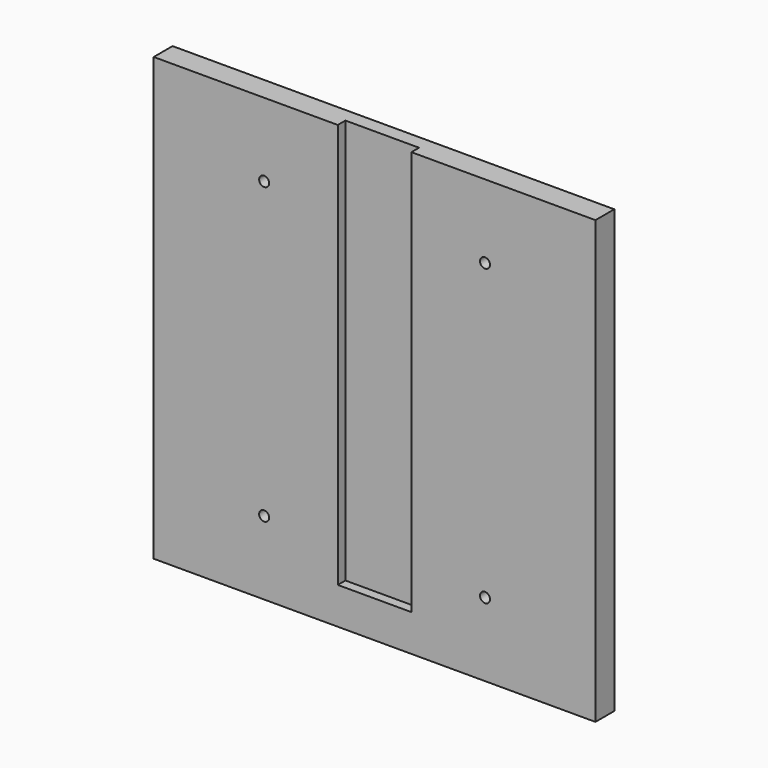
from build123d import *

# Parameters (mm, degrees)
F0_W     = 310
F0_H     = 300
F1_DEPTH = 16
F2_W     = 5
F2_H     = 300
F3_DEPTH = 16.001
F4_W     = 50
F4_H     = 275
F5_DEPTH = 6.5
F7_D     = 6.8
F7_DEPTH = 20
F7_TIP   = 2.0429261047


with BuildPart() as f1:
    # F0 (on Front) → F1 (new body)
    with BuildSketch(Plane.XZ):
        Rectangle(F0_W, F0_H)
    extrude(amount=F1_DEPTH)

    # F2 (on face) → F3 (cut, through all)
    with BuildSketch(Plane.XZ.offset(16)):
        with Locations((152.5, 0)):
            Rectangle(F2_W, F2_H)
        with Locations((-152.5, 0)):
            Rectangle(F2_W, F2_H)
    extrude(amount=-F3_DEPTH, mode=Mode.SUBTRACT)

    # F4 (on face) → F5 (cut)
    with BuildSketch(Plane.XZ.offset(16)):
        with Locations((0, 12.5)):
            Rectangle(F4_W, F4_H)
    extrude(amount=-F5_DEPTH, mode=Mode.SUBTRACT)

    # F7
    with Locations(Plane.XZ.offset(16)):
        with Locations((-75, 100), (75, 100), (75, -100), (-75, -100)):
            Hole(F7_D / 2, depth=F7_DEPTH)
            with Locations((0, 0, -(F7_DEPTH + F7_TIP / 2))):  # 118° drill point
                Cone(0, F7_D / 2, F7_TIP, mode=Mode.SUBTRACT)


solid = f1.part
